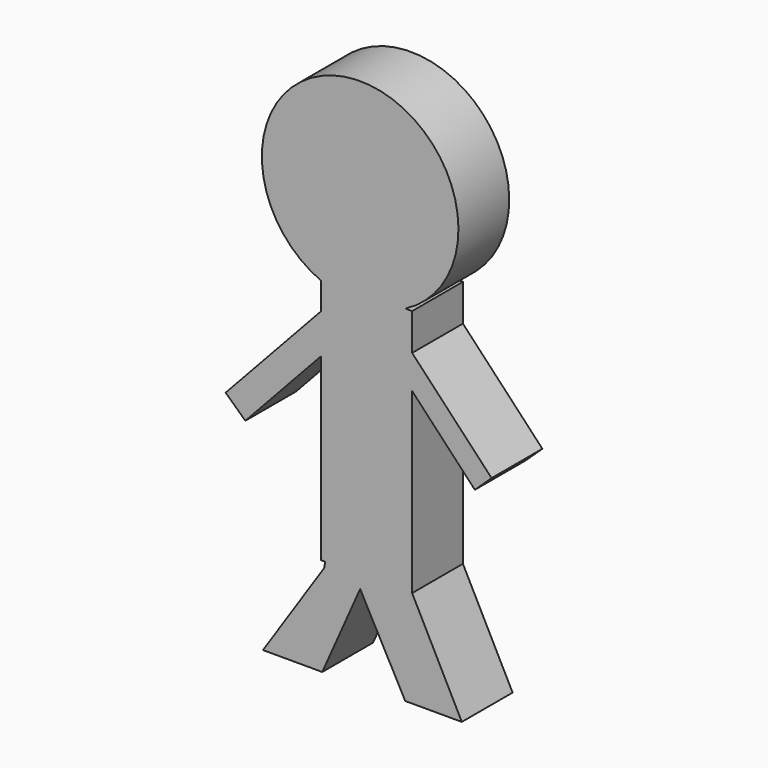
from build123d import *

# Parameters (mm, degrees)
F0_R     = 39.32561
F1_DEPTH = 25.4
F3_DEPTH = 25.4
F5_DEPTH = 25.4
F7_DEPTH = 25.4


with BuildPart() as f1:
    # F0 (on Front) → F1 (new body)
    with BuildSketch(Plane.XZ):
        with Locations((0, 58.036841)):
            Circle(F0_R)
    extrude(amount=F1_DEPTH)

    # F2 (on Front) → F3 (join)
    with BuildSketch(Plane.XZ):
        Polygon((20.801723, 23.11036), (-15.714049, 23.506835), (-15.714049, -76.474115), (20.801723, -76.474115), align=None)
    extrude(amount=F3_DEPTH)

    # F4 (on Front) → F5 (join)
    with BuildSketch(Plane.XZ):
        Polygon((-11.353261, 0), (-15.755951, 11.085525), (-53.817809, -29.885441), (-45.926862, -37.216098), align=None)
        Polygon((52.584887, -25.371686), (20.5549, 8.637682), (16.058708, 0), (45.89106, -31.675924), align=None)
    extrude(amount=F5_DEPTH)

    # F6 (on Front) → F7 (join)
    with BuildSketch(Plane.XZ):
        Polygon((-12.695789, -69.341376), (-14.400601, -78.842267), (-38.887709, -115.700036), (-15.157491, -115.700036), (0, -81.533164), (0, -69.341376), align=None)
        Polygon((6.92448, -69.341376), (0, -69.341376), (0, -81.533164), (18.049568, -115.125895), (40.677667, -115.125895), (17.291129, -69.341376), align=None)
    extrude(amount=F7_DEPTH)


solid = f1.part
